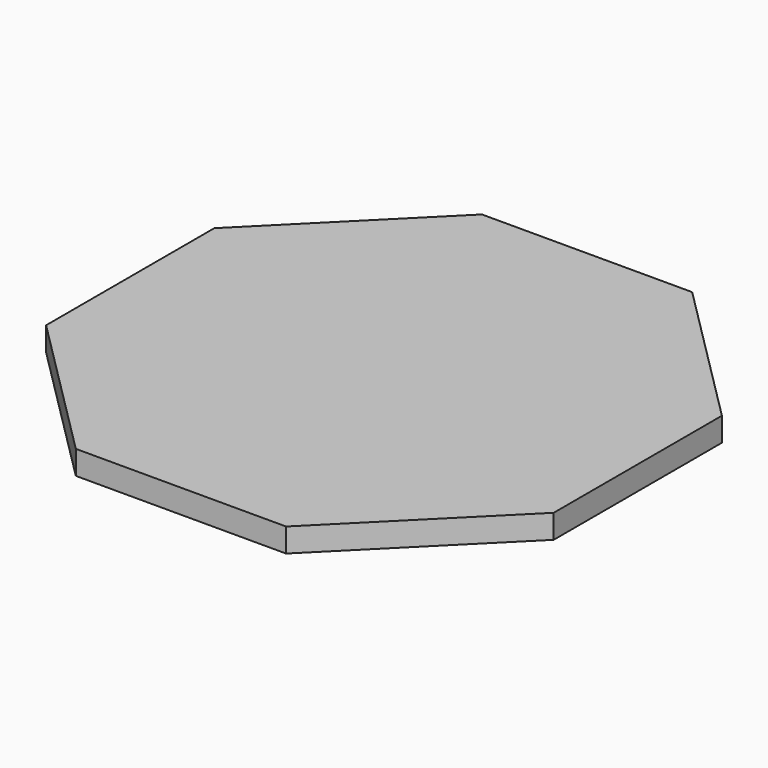
from build123d import *

# Parameters (mm, degrees)
F1_DEPTH = 150


with BuildPart() as f1:
    # F0 (on Top) → F1 (new body)
    with BuildSketch(Plane.XY):
        Polygon((-2965.890262, 1129.365108), (-2965.890262, -194.898961), (-2029.494159, -1131.295064), (-705.23009, -1131.295064), (231.166013, -194.898961), (231.166013, 1129.365108), (-705.23009, 2065.761211), (-2029.494159, 2065.761211), align=None)
        Polygon((81.166013, 1067.233074), (81.166013, -132.766926), (-767.362124, -981.295064), (-1967.362124, -981.295064), (-2815.890262, -132.766926), (-2815.890262, 1067.233074), (-1967.362124, 1915.761211), (-767.362124, 1915.761211), align=None, mode=Mode.SUBTRACT)
        Polygon((-767.362124, -981.295064), (81.166013, -132.766926), (81.166013, 1067.233074), (-767.362124, 1915.761211), (-1967.362124, 1915.761211), (-2815.890262, 1067.233074), (-2815.890262, -132.766926), (-1967.362124, -981.295064), align=None)
    extrude(amount=F1_DEPTH)


solid = f1.part
